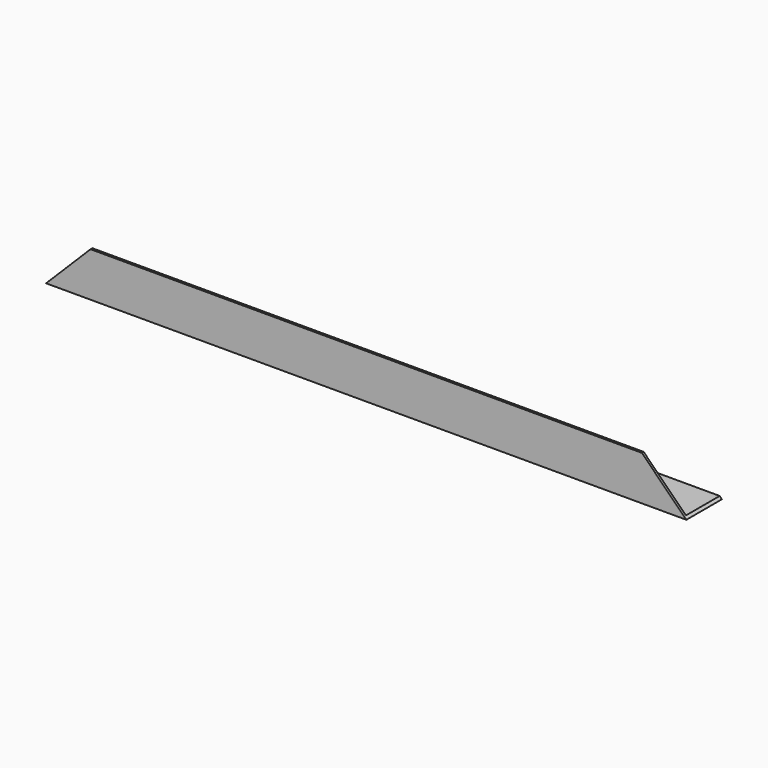
from build123d import *

# Parameters (mm, degrees)
F1_DEPTH = 457.2
F3_DEPTH = 76.2


with BuildPart() as f1:
    # F0 (on Right) → F1 (new body, symmetric)
    with BuildSketch(Plane.YZ):
        Polygon((0, 63.5), (0, 0), (63.5, 0), (63.5, 3.175), (3.175, 3.175), (3.175, 63.5), align=None)
    extrude(amount=F1_DEPTH, both=True)

    # F2 (on face) → F3 (cut)
    with BuildSketch(Plane.XZ):
        Polygon((-457.2, 63.5), (-457.2, 0), (-393.7, 63.5), align=None)
        Polygon((393.7, 63.5), (457.2, 0), (457.2, 63.5), align=None)
    extrude(amount=-F3_DEPTH, mode=Mode.SUBTRACT)


solid = f1.part
